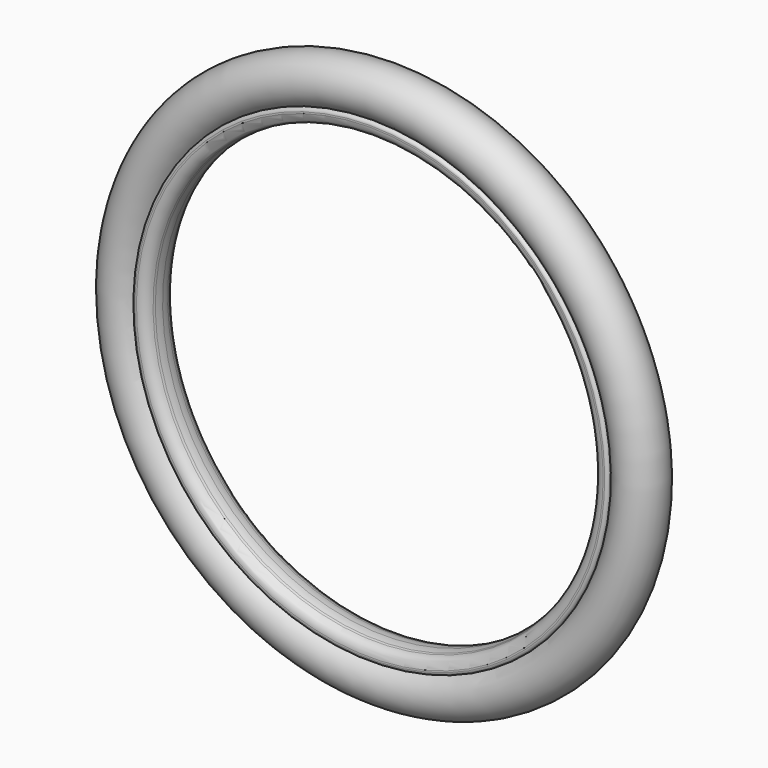
from build123d import *


with BuildPart() as f1:
    # F0 (on Right) → F1 (revolve)
    with BuildSketch(Plane.YZ):
        with BuildLine():
            Line((43.184094, 266.946586), (45.786854, 266.253463))
            ThreePointArc((45.786854, 266.253463), (50.354264, 265.33199), (55, 264.974933))
            ThreePointArc((55, 264.974933), (59.645736, 265.33199), (64.213146, 266.253463))
            Line((64.213146, 266.253463), (66.815906, 266.946586))
            ThreePointArc((66.815906, 266.946586), (73.617401, 271.479872), (76.247756, 279.21888))
            Line((76.247756, 279.21888), (76.247756, 281.077808))
            ThreePointArc((76.247756, 281.077808), (74.877454, 284.004236), (71.75223, 284.825628))
            ThreePointArc((71.75223, 284.825628), (55, 279.4), (38.24777, 284.825628))
            ThreePointArc((38.24777, 284.825628), (35.122546, 284.004236), (33.752244, 281.077808))
            Line((33.752244, 281.077808), (33.752244, 279.21888))
            ThreePointArc((33.752244, 279.21888), (36.382599, 271.479872), (43.184094, 266.946586))
        make_face()
        with BuildLine():
            ThreePointArc((83.575, 307.975), (42.003161, 333.423238), (38.24777, 284.825628))
            ThreePointArc((38.24777, 284.825628), (55, 279.4), (71.75223, 284.825628))
            ThreePointArc((71.75223, 284.825628), (80.448238, 294.978161), (83.575, 307.975))
        make_face()
    revolve(axis=Axis((0, 0.994938, 0), (0, 1, 0)))


solid = f1.part
